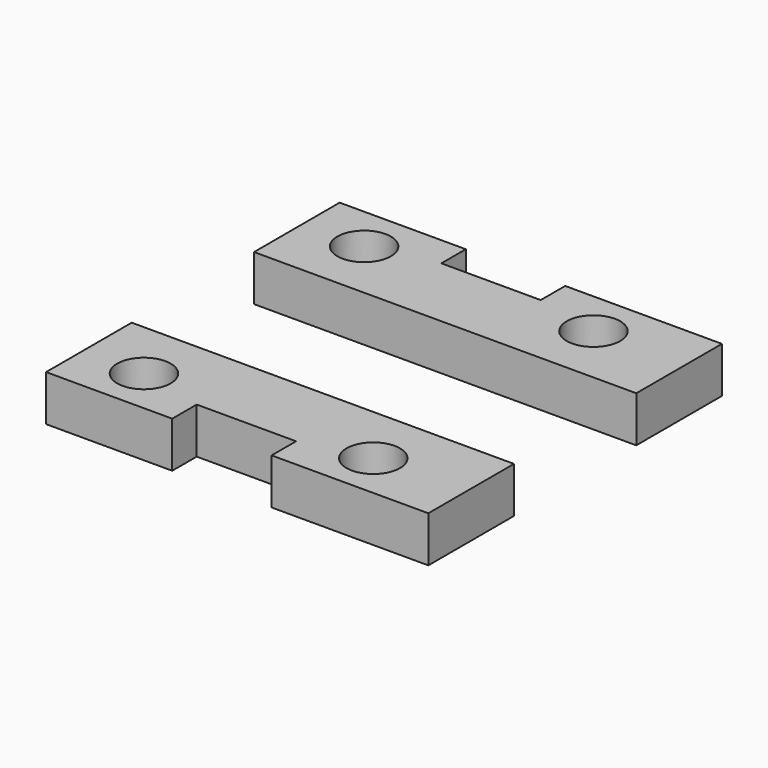
from build123d import *

# Parameters (mm, degrees)
F0_W     = 25
F0_H     = 7
F0_R     = 1.75
F1_DEPTH = 3
F2_W     = 6.5
F2_H     = 2
F3_DEPTH = 3.001


with BuildPart() as f1:
    # F0 (on Top) → F1 (new body)
    with BuildSketch(Plane.XY):
        with Locations((12.5, 3.5)):
            Rectangle(F0_W, F0_H)
        with Locations((4, 4)):
            Circle(F0_R, mode=Mode.SUBTRACT)
        with Locations((19, 4)):
            Circle(F0_R, mode=Mode.SUBTRACT)
    extrude(amount=F1_DEPTH)

    # F2 (on face) → F3 (cut, through all)
    with BuildSketch(Plane.XY.offset(3)):
        with Locations((11.5, 6)):
            Rectangle(F2_W, F2_H)
    extrude(amount=-F3_DEPTH, mode=Mode.SUBTRACT)


with BuildPart() as f5_1:
    # F5: instance of F1
    add(f1.part.mirror(Plane(origin=(12.5, -5, 1.5), x_dir=(1, 0, 0), z_dir=(0, -1, 0))))


solid = Compound([f1.part, f5_1.part])
